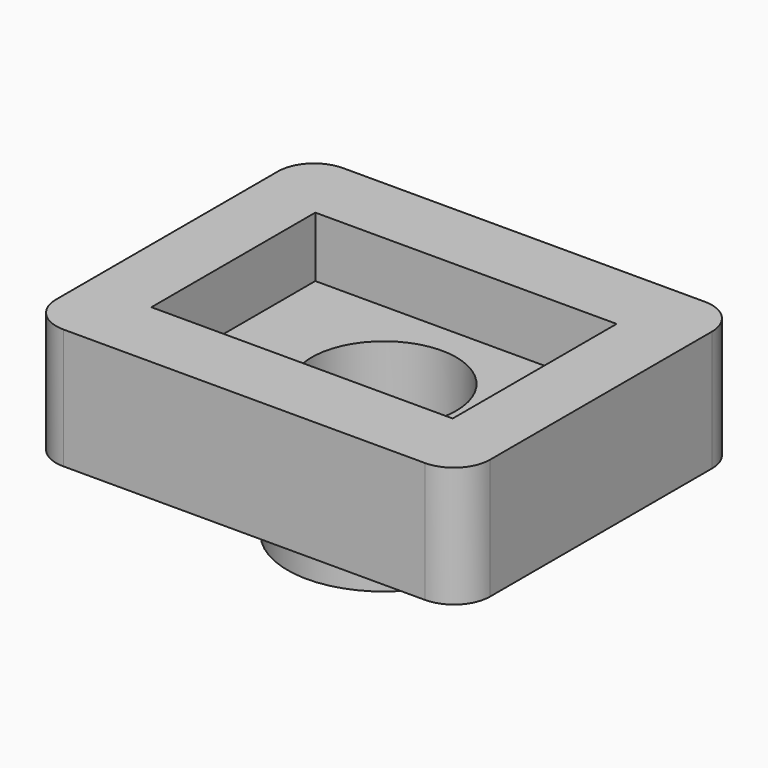
from build123d import *

# Parameters (mm, degrees)
F0_W     = 12.5
F0_H     = 8.5
F0_R     = 4
F0_R_2   = 3
F1_DEPTH = 2.5
F2_DEPTH = 5
F3_DEPTH = 3


with BuildPart() as f1:
    # F0 (on Top) → F1 (new body)
    with BuildSketch(Plane.XY):
        Rectangle(F0_W, F0_H)
        Circle(F0_R, mode=Mode.SUBTRACT)
        Circle(F0_R)
        Circle(F0_R_2, mode=Mode.SUBTRACT)
    extrude(amount=F1_DEPTH)

    # F0 (on Top) → F2 (join)
    with BuildSketch(Plane.XY):
        with BuildLine():
            Line((7.5, 7.25), (-7.5, 7.25))
            ThreePointArc((-7.5, 7.25), (-8.56066, 6.81066), (-9, 5.75))
            Line((-9, 5.75), (-9, -5.75))
            ThreePointArc((-9, -5.75), (-8.56066, -6.81066), (-7.5, -7.25))
            Line((-7.5, -7.25), (7.5, -7.25))
            ThreePointArc((7.5, -7.25), (8.56066, -6.81066), (9, -5.75))
            Line((9, -5.75), (9, 5.75))
            ThreePointArc((9, 5.75), (8.56066, 6.81066), (7.5, 7.25))
        make_face()
        Rectangle(F0_W, F0_H, mode=Mode.SUBTRACT)
    extrude(amount=F2_DEPTH)


with BuildPart() as f3:
    # F0 (on Top) → F3 (new body)
    with BuildSketch(Plane.XY):
        Circle(F0_R)
        Circle(F0_R_2, mode=Mode.SUBTRACT)
    extrude(amount=-F3_DEPTH)


solid = Compound([f1.part, f3.part])
